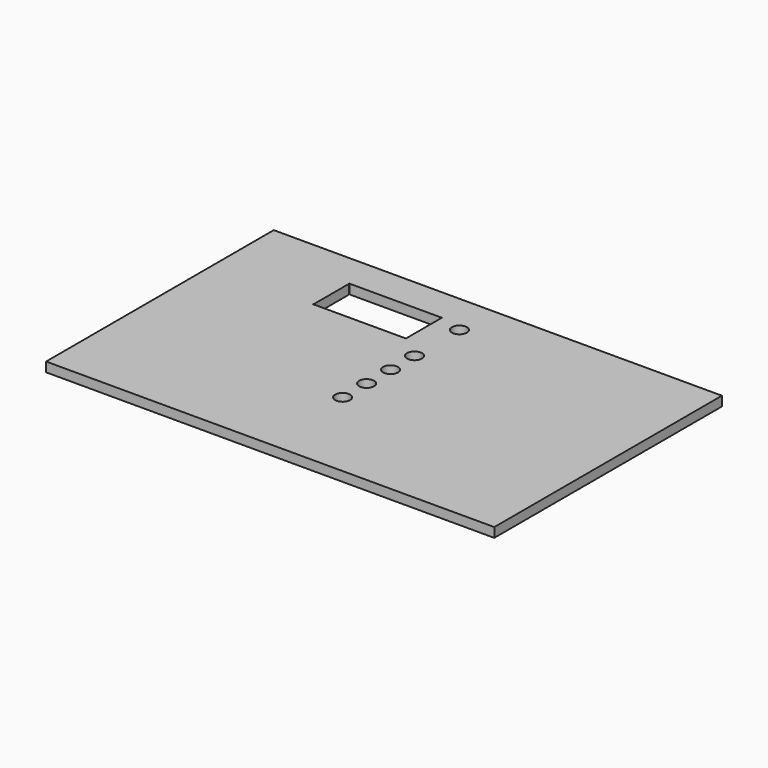
from build123d import *

# Parameters (mm, degrees)
F0_W     = 3040.38
F0_H     = 1930.4
F1_DEPTH = 64.516


with BuildPart() as f1:
    # F0 (on Top) → F1 (new body)
    with BuildSketch(Plane.XY):
        Rectangle(F0_W, F0_H)
        with BuildLine():
            ThreePointArc((-36.83, -254), (13.97, -304.8), (-36.83, -355.6))
            ThreePointArc((-36.83, -355.6), (-87.63, -304.8), (-36.83, -254))
        make_face(mode=Mode.SUBTRACT)
        with BuildLine():
            ThreePointArc((-36.83, -50.8), (13.97, -101.6), (-36.83, -152.4))
            ThreePointArc((-36.83, -152.4), (-87.63, -101.6), (-36.83, -50.8))
        make_face(mode=Mode.SUBTRACT)
        with BuildLine():
            ThreePointArc((-36.83, 152.4), (13.97, 101.6), (-36.83, 50.8))
            ThreePointArc((-36.83, 50.8), (-87.63, 101.6), (-36.83, 152.4))
        make_face(mode=Mode.SUBTRACT)
        with BuildLine():
            ThreePointArc((-36.83, 355.6), (13.97, 304.8), (-36.83, 254))
            ThreePointArc((-36.83, 254), (-87.63, 304.8), (-36.83, 355.6))
        make_face(mode=Mode.SUBTRACT)
        with BuildLine():
            ThreePointArc((-825.8429, 431.8), (-825.370493, 432.940493), (-824.23, 433.4129))
            Line((-824.23, 433.4129), (-824.23, 734.9871))
            ThreePointArc((-824.23, 734.9871), (-825.370493, 735.459507), (-825.8429, 736.6))
            ThreePointArc((-825.8429, 736.6), (-825.370493, 737.740493), (-824.23, 738.2129))
            ThreePointArc((-824.23, 738.2129), (-823.089507, 737.740493), (-822.6171, 736.6))
            Line((-822.6171, 736.6), (-198.4629, 736.6))
            ThreePointArc((-198.4629, 736.6), (-197.990493, 737.740493), (-196.85, 738.2129))
            ThreePointArc((-196.85, 738.2129), (-195.709507, 737.740493), (-195.2371, 736.6))
            ThreePointArc((-195.2371, 736.6), (-195.709507, 735.459507), (-196.85, 734.9871))
            Line((-196.85, 734.9871), (-196.85, 433.4129))
            ThreePointArc((-196.85, 433.4129), (-195.709507, 432.940493), (-195.2371, 431.8))
            ThreePointArc((-195.2371, 431.8), (-195.709507, 430.659507), (-196.85, 430.1871))
            ThreePointArc((-196.85, 430.1871), (-197.990493, 430.659507), (-198.4629, 431.8))
            Line((-198.4629, 431.8), (-822.6171, 431.8))
            ThreePointArc((-822.6171, 431.8), (-823.089507, 430.659507), (-824.23, 430.1871))
            ThreePointArc((-824.23, 430.1871), (-825.370493, 430.659507), (-825.8429, 431.8))
        make_face(mode=Mode.SUBTRACT)
        with BuildLine():
            ThreePointArc((-36.83, 736.6), (13.97, 685.8), (-36.83, 635))
            ThreePointArc((-36.83, 635), (-87.63, 685.8), (-36.83, 736.6))
        make_face(mode=Mode.SUBTRACT)
    extrude(amount=F1_DEPTH)


solid = f1.part
